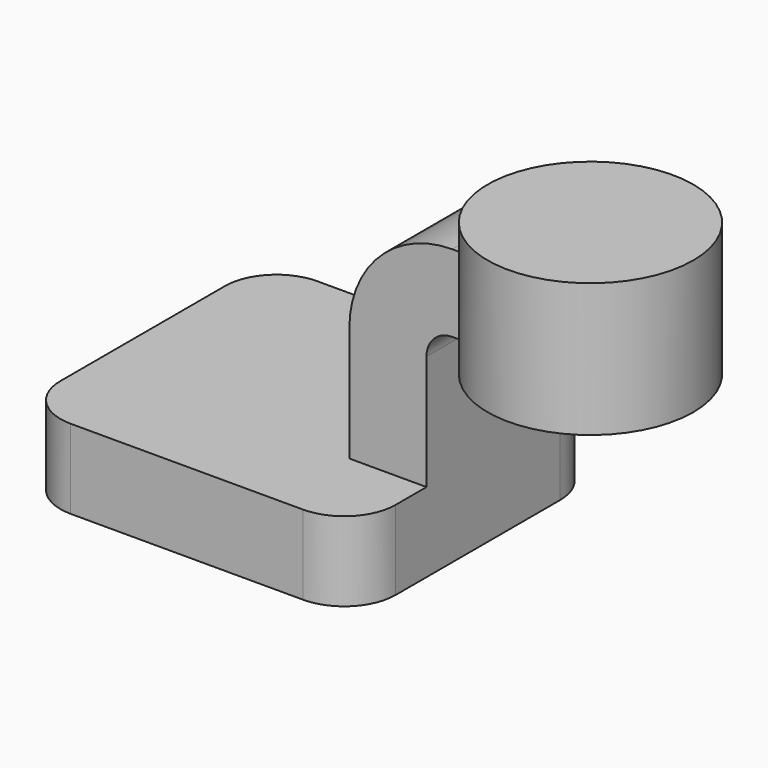
from build123d import *

# Parameters (mm, degrees)
F1_DEPTH = 38.1
F0_W     = 18.215902
F0_H     = 19.05
F2_DEPTH = 15.875
F4_R     = 12.7


with BuildPart() as f1:
    # F0 (on Front) → F1 (new body, symmetric)
    with BuildSketch(Plane.XZ):
        Polygon((-41.398831, -9.801595), (41.398831, -9.801595), (41.398831, 9.801595), (22.34883, 9.801595), (-41.398831, 9.801595), align=None)
    extrude(amount=F1_DEPTH, both=True)

    # F0 (on Front) → F2 (join, symmetric)
    with BuildSketch(Plane.XZ):
        with BuildLine():
            Line((22.34883, 9.801595), (41.398831, 9.801595))
            Line((41.398831, 9.801595), (41.398831, 38.174614))
            ThreePointArc((41.398831, 38.174614), (43.258703, 42.664742), (47.74883, 44.524614))
            Line((47.74883, 44.524614), (69.194875, 44.524614))
            Line((69.194875, 44.524614), (69.194875, 63.574614))
            Line((69.194875, 63.574614), (47.74883, 63.574614))
            ThreePointArc((47.74883, 63.574614), (29.788318, 56.135127), (22.34883, 38.174614))
            Line((22.34883, 38.174614), (22.34883, 9.801595))
        make_face()
        with Locations((78.302826, 54.049614)):
            Rectangle(F0_W, F0_H)
    extrude(amount=F2_DEPTH, both=True)

    # F0 (on Front) → F3 (revolve)
    with BuildSketch(Plane.XZ):
        Polygon((87.410777, 44.524614), (69.194875, 44.524614), (69.194875, 36.908722), (94.594875, 36.908722), (94.594875, 69.924614), (69.194875, 69.924614), (69.194875, 63.574614), (87.410777, 63.574614), align=None)
    revolve(axis=Axis((69.194875, 0, 53.416668), (0, 0, 1)))

    # F4
    f4_edges = [f1.edges().sort_by_distance(p)[0] for p in [
        (-41.398831, -38.1, 0),
        (41.398831, -38.1, 0),
        (-41.398831, 38.1, 0),
        (41.398831, 38.1, 0),
    ]]
    fillet(f4_edges, radius=F4_R)


solid = f1.part
